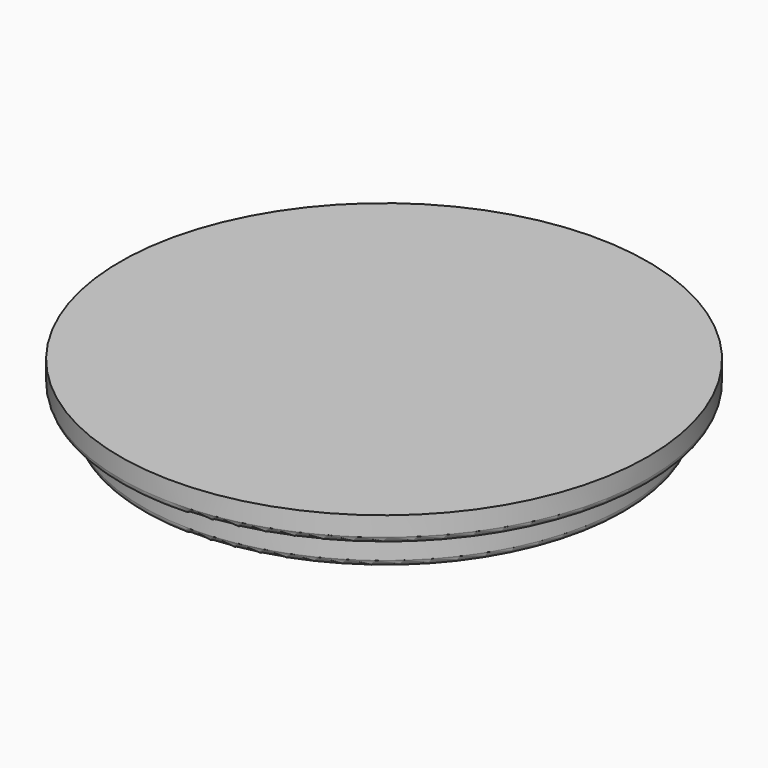
from build123d import *

# Parameters (mm, degrees)
F0_R     = 18.75
F1_DEPTH = 2.5
F2_R     = 0.5
F3_R     = 20.5
F4_DEPTH = 2
F5_R     = 0.5


with BuildPart() as f1:
    # F0 (on Top) → F1 (new body)
    with BuildSketch(Plane.XY):
        Circle(F0_R)
    extrude(amount=F1_DEPTH)

    # F2
    f2_edges = [f1.edges().sort_by_distance(p)[0] for p in [
        (-18.75, 0, 0),
    ]]
    fillet(f2_edges, radius=F2_R)

    # F3 (on face) → F4 (join)
    with BuildSketch(Plane.XY.offset(2.5)):
        Circle(F3_R)
    extrude(amount=F4_DEPTH)

    # F5
    f5_edges = [f1.edges().sort_by_distance(p)[0] for p in [
        (-20.5, 0, 2.5),
    ]]
    fillet(f5_edges, radius=F5_R)


solid = f1.part
